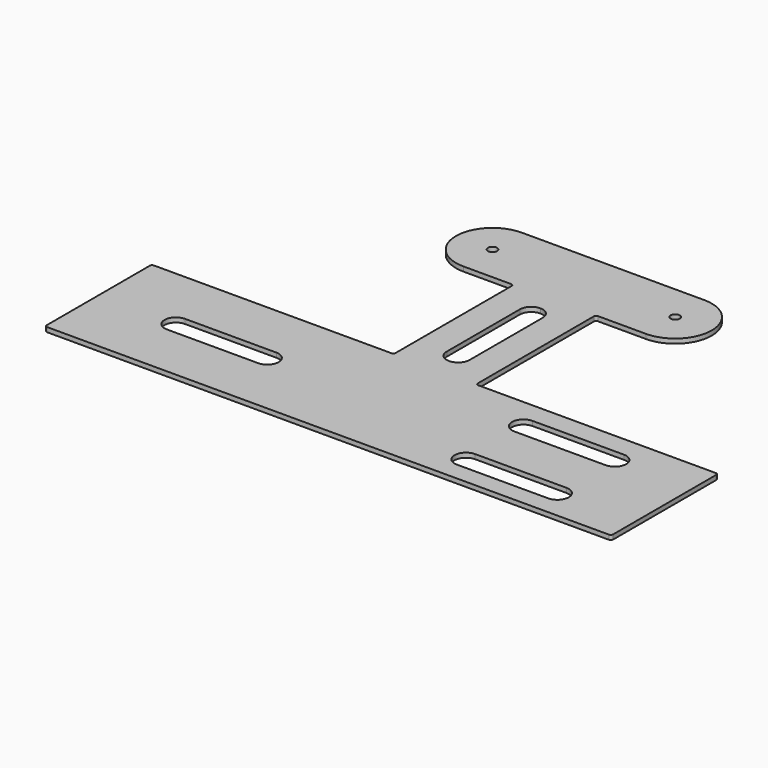
from build123d import *

# Parameters (mm, degrees)
F0_R     = 1.5875
F1_DEPTH = 1.5875
F2_R     = 0.79375
F5_DEPTH = 1.5885


with BuildPart() as f1:
    # F0 (on Top) → F1 (new body)
    with BuildSketch(Plane.XY):
        with BuildLine():
            Line((0, 52.563247), (0, 0))
            Line((0, 0), (98.425, 0))
            Line((98.425, 0), (98.425, 46.388994))
            Line((98.425, 46.388994), (14.2875, 46.388994))
            Line((14.2875, 46.388994), (14.2875, 98.425))
            Line((14.2875, 98.425), (31.75, 98.425))
            ThreePointArc((31.75, 98.425), (44.45, 111.125), (31.75, 123.825))
            Line((31.75, 123.825), (0, 123.825))
            Line((0, 123.825), (0, 92.250747))
            ThreePointArc((0, 92.250747), (2.80633, 91.088327), (3.96875, 88.281997))
            Line((3.96875, 88.281997), (3.96875, 56.531997))
            ThreePointArc((3.96875, 56.531997), (2.80633, 53.725667), (0, 52.563247))
        make_face()
        with BuildLine():
            Line((71.4375, 6.35), (39.6875, 6.35))
            ThreePointArc((39.6875, 6.35), (35.71875, 10.31875), (39.6875, 14.2875))
            Line((39.6875, 14.2875), (71.4375, 14.2875))
            ThreePointArc((71.4375, 14.2875), (75.40625, 10.31875), (71.4375, 6.35))
        make_face(mode=Mode.SUBTRACT)
        with BuildLine():
            Line((71.4375, 31.307744), (39.6875, 31.307744))
            ThreePointArc((39.6875, 31.307744), (35.71875, 35.276494), (39.6875, 39.245244))
            Line((39.6875, 39.245244), (71.4375, 39.245244))
            ThreePointArc((71.4375, 39.245244), (75.40625, 35.276494), (71.4375, 31.307744))
        make_face(mode=Mode.SUBTRACT)
        with Locations((31.75, 111.125)):
            Circle(F0_R, mode=Mode.SUBTRACT)
        with BuildLine():
            ThreePointArc((39.6875, 39.245244), (35.71875, 35.276494), (39.6875, 31.307744))
            Line((39.6875, 31.307744), (71.4375, 31.307744))
            ThreePointArc((71.4375, 31.307744), (75.40625, 35.276494), (71.4375, 39.245244))
            Line((71.4375, 39.245244), (39.6875, 39.245244))
        make_face()
        with BuildLine():
            ThreePointArc((39.6875, 14.2875), (35.71875, 10.31875), (39.6875, 6.35))
            Line((39.6875, 6.35), (71.4375, 6.35))
            ThreePointArc((71.4375, 6.35), (75.40625, 10.31875), (71.4375, 14.2875))
            Line((71.4375, 14.2875), (39.6875, 14.2875))
        make_face()
    extrude(amount=F1_DEPTH)

    # F2
    f2_edges = [f1.edges().sort_by_distance(p)[0] for p in [
        (14.2875, 98.425, 0.79375),
        (14.2875, 46.388994, 0.79375),
        (98.425, 46.388994, 0.79375),
        (98.425, 0, 0.79375),
    ]]
    fillet(f2_edges, radius=F2_R)

    # F3: F1 across plane


with BuildPart() as f1_1:
    add(f1.part)
    add(f1.part.mirror(Plane.YZ))

    # F4 (on face) → F5 (cut, through all)
    with BuildSketch(Plane.XY.offset(1.5875)):
        with BuildLine():
            ThreePointArc((-71.4375, 27.163247), (-75.40625, 23.194497), (-71.4375, 19.225747))
            Line((-71.4375, 19.225747), (-39.6875, 19.225747))
            ThreePointArc((-39.6875, 19.225747), (-35.71875, 23.194497), (-39.6875, 27.163247))
            Line((-39.6875, 27.163247), (-71.4375, 27.163247))
        make_face()
        with BuildLine():
            Line((71.4375, 39.245244), (39.6875, 39.245244))
            ThreePointArc((39.6875, 39.245244), (35.71875, 35.276494), (39.6875, 31.307744))
            Line((39.6875, 31.307744), (71.4375, 31.307744))
            ThreePointArc((71.4375, 31.307744), (75.40625, 35.276494), (71.4375, 39.245244))
        make_face()
        with BuildLine():
            ThreePointArc((39.6875, 14.2875), (35.71875, 10.31875), (39.6875, 6.35))
            Line((39.6875, 6.35), (71.4375, 6.35))
            ThreePointArc((71.4375, 6.35), (75.40625, 10.31875), (71.4375, 14.2875))
            Line((71.4375, 14.2875), (39.6875, 14.2875))
        make_face()
    extrude(amount=-F5_DEPTH, mode=Mode.SUBTRACT)


solid = f1_1.part
